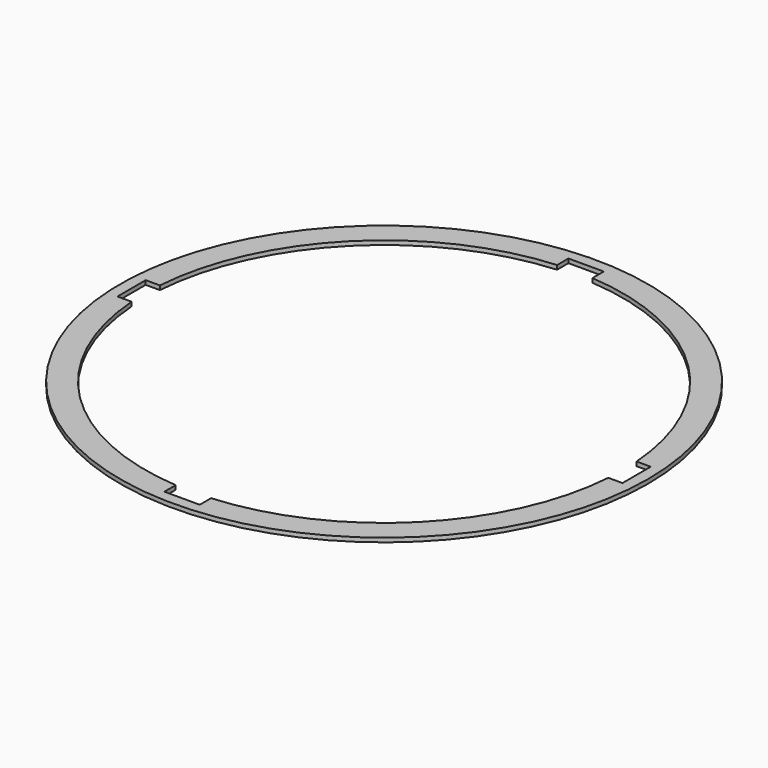
from build123d import *

# Parameters (mm, degrees)
F0_R     = 63.5
F0_R_2   = 57.5
F1_DEPTH = 1
F3_DEPTH = 25


with BuildPart() as f1:
    # F0 (on Top) → F1 (new body)
    with BuildSketch(Plane.XY):
        Circle(F0_R)
        Circle(F0_R_2, mode=Mode.SUBTRACT)
    extrude(amount=F1_DEPTH)

    # F2 (on Top) → F3 (cut)
    with BuildSketch(Plane.XY):
        Polygon((4.25, 60.75), (0, 60.75), (-4.25, 60.75), (-4.25, 56.5), (4.25, 56.5), align=None)
        Polygon((-4.25, -60.75), (0, -60.75), (4.25, -60.75), (4.25, -56.5), (-4.25, -56.5), align=None)
        Polygon((-60.75, 4.25), (-60.75, 0), (-60.75, -4.25), (-56.5, -4.25), (-56.5, 4.25), align=None)
        Polygon((60.75, -4.25), (60.75, 0), (60.75, 4.25), (56.5, 4.25), (56.5, -4.25), align=None)
    extrude(amount=F3_DEPTH, mode=Mode.SUBTRACT)


solid = f1.part
